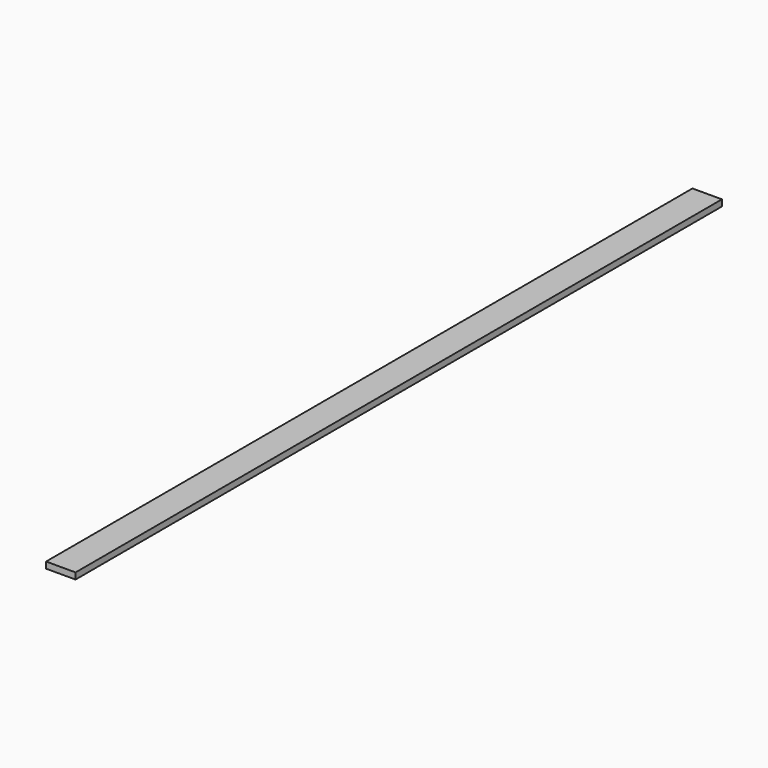
from build123d import *

# Parameters (mm, degrees)
SKETCH_W  = 88.9
SKETCH_H  = 19.05
PAD_DEPTH = 2438.4


with BuildPart() as part:
    # Sketch → Pad (new body)
    with BuildSketch(Plane.XZ):
        with Locations((-44.45, 9.525)):
            Rectangle(SKETCH_W, SKETCH_H)
    extrude(amount=PAD_DEPTH)


solid = part.part
